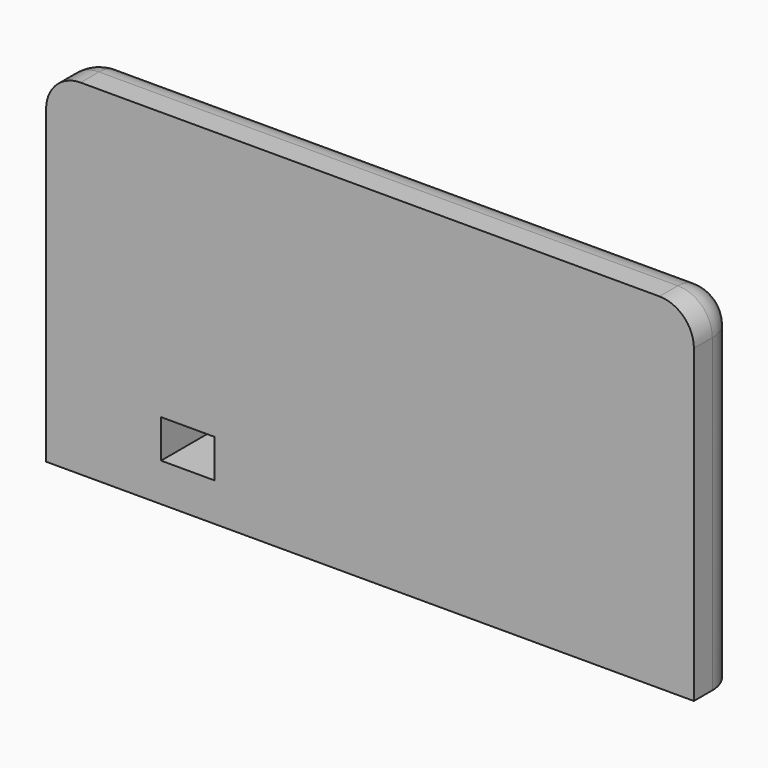
from build123d import *

# Parameters (mm, degrees)
F1_DEPTH = 19.05
F2_R     = 11.43
F3_W     = 17.78
F3_H     = 12.7
F4_DEPTH = 25.4


with BuildPart() as f1:
    # F0 (on Front) → F1 (new body)
    with BuildSketch(Plane.XZ):
        with BuildLine():
            Line((0, 102.87), (0, 0))
            Line((0, 0), (214.63, 0))
            Line((214.63, 0), (214.63, 102.87))
            ThreePointArc((214.63, 102.87), (211.282230509, 110.952230509), (203.2, 114.3))
            Line((203.2, 114.3), (11.43, 114.3))
            ThreePointArc((11.43, 114.3), (3.347769491, 110.952230509), (0, 102.87))
        make_face()
    extrude(amount=F1_DEPTH)

    # F2
    f2_edges = [f1.edges().sort_by_distance(p)[0] for p in [
        (107.315, 0, 114.3),
    ]]
    fillet(f2_edges, radius=F2_R)

    # F3 (on face) → F4 (cut)
    with BuildSketch(Plane.XZ.offset(19.05)):
        with Locations((46.99, 19.05)):
            Rectangle(F3_W, F3_H)
    extrude(amount=-F4_DEPTH, mode=Mode.SUBTRACT)


solid = f1.part
